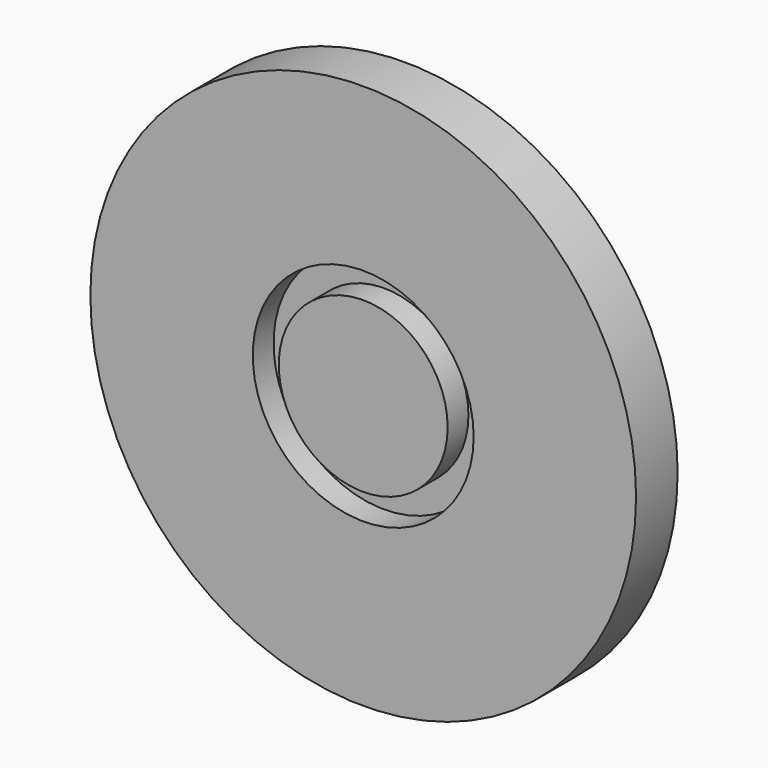
from build123d import *

# Parameters (mm, degrees)
F0_R     = 10.5
F0_R_2   = 4.25
F0_R_3   = 3.25
F1_DEPTH = 2
F2_DEPTH = 4
F3_DEPTH = 1


with BuildPart() as f1:
    # F0 (on Front) → F1 (new body)
    with BuildSketch(Plane.XZ):
        Circle(F0_R)
        Circle(F0_R_2, mode=Mode.SUBTRACT)
        Circle(F0_R_3)
    extrude(amount=F1_DEPTH)


with BuildPart() as f2:
    # F0 (on Front) → F2 (new body)
    with BuildSketch(Plane.XZ):
        Circle(F0_R_2)
        Circle(F0_R_3, mode=Mode.SUBTRACT)
    extrude(amount=-F2_DEPTH)


with BuildPart() as f3:
    # F0 (on Front) → F3 (new body)
    with BuildSketch(Plane.XZ):
        Circle(F0_R_2)
        Circle(F0_R_3, mode=Mode.SUBTRACT)
    extrude(amount=F3_DEPTH)


solid = Compound([f1.part, f2.part, f3.part])
